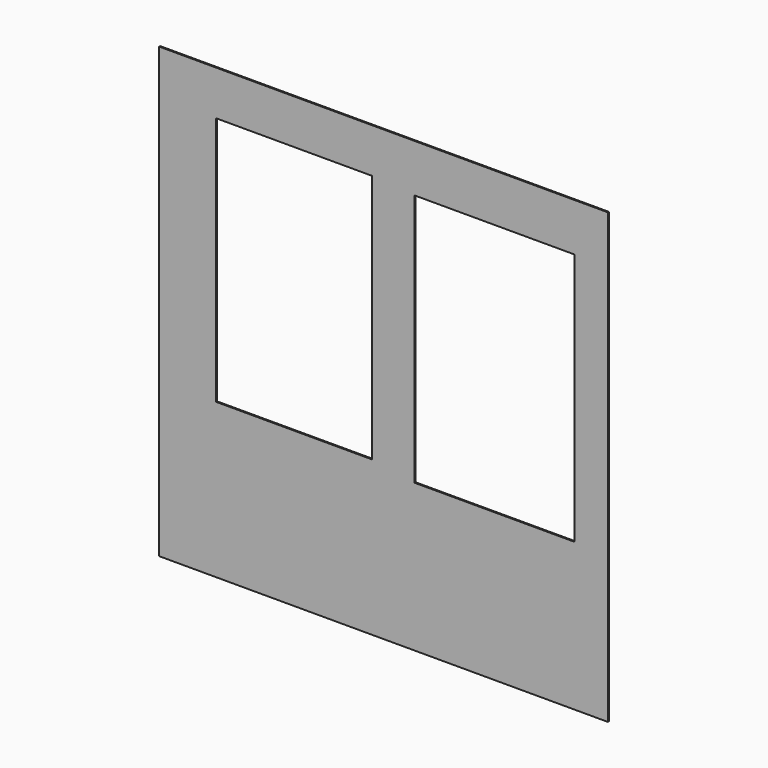
from build123d import *

# Parameters (mm, degrees)
F0_W     = 114.3
F0_H     = 114.3
F1_DEPTH = 0.3
F2_W     = 39.628732
F2_H     = 63.614545
F3_DEPTH = 0.301
F4_W     = 40.832126
F4_H     = 64.454022
F5_DEPTH = 0.301


with BuildPart() as f1:
    # F0 (on Front) → F1 (new body)
    with BuildSketch(Plane.XZ):
        with Locations((6.831163, 6.801479)):
            Rectangle(F0_W, F0_H)
    extrude(amount=F1_DEPTH)

    # F2 (on face) → F3 (cut, through all)
    with BuildSketch(Plane.XZ.offset(0.3)):
        with Locations((-15.981431, 20.791628)):
            Rectangle(F2_W, F2_H)
    extrude(amount=-F3_DEPTH, mode=Mode.SUBTRACT)

    # F4 (on face) → F5 (cut, through all)
    with BuildSketch(Plane.XZ.offset(0.3)):
        with Locations((35.110194, 19.508778)):
            Rectangle(F4_W, F4_H)
    extrude(amount=-F5_DEPTH, mode=Mode.SUBTRACT)


solid = f1.part
